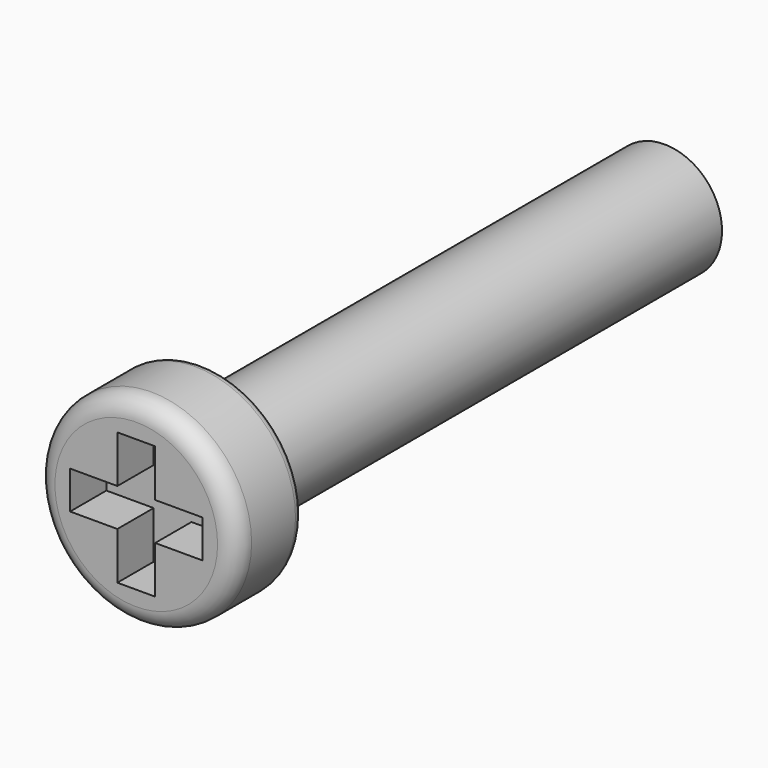
from build123d import *

# Parameters (mm, degrees)
F0_R     = 2.65
F1_DEPTH = 2.2
F0_W     = 1
F0_H     = 1.25
F0_W_2   = 1.25
F0_H_2   = 1
F2_DEPTH = 1
F3_R     = 0.5
F4_R     = 0.25
F5_R     = 1.52
F6_DEPTH = 15.26


with BuildPart() as f1:
    # F0 (on Front) → F1 (new body)
    with BuildSketch(Plane.XZ):
        Circle(F0_R)
        Polygon((0.5, -0.5), (0.5, -1.75), (-0.5, -1.75), (-0.5, -0.5), (-1.75, -0.5), (-1.75, 0.5), (-0.5, 0.5), (-0.5, 1.75), (0.5, 1.75), (0.5, 0.5), (1.75, 0.5), (1.75, -0.5), align=None, mode=Mode.SUBTRACT)
    extrude(amount=F1_DEPTH)

    # F0 (on Front) → F2 (join)
    with BuildSketch(Plane.XZ):
        with Locations((0, 1.125)):
            Rectangle(F0_W, F0_H)
        with Locations((1.125, 0)):
            Rectangle(F0_W_2, F0_H_2)
        with Locations((-1.125, 0)):
            Rectangle(F0_W_2, F0_H_2)
        Rectangle(F0_W, F0_H_2)
        with Locations((0, -1.125)):
            Rectangle(F0_W, F0_H)
    extrude(amount=F2_DEPTH)

    # F3
    f3_edges = [f1.edges().sort_by_distance(p)[0] for p in [
        (-2.65, -2.2, 0),
    ]]
    fillet(f3_edges, radius=F3_R)

    # F4
    f4_edges = [f1.edges().sort_by_distance(p)[0] for p in [
        (-2.65, 0, 0),
    ]]
    fillet(f4_edges, radius=F4_R)

    # F5 (on face) → F6 (join)
    with BuildSketch(Plane(origin=(0, 0, 0), x_dir=(-1, 0, 0), z_dir=(0, 1, 0))):
        Circle(F5_R)
    extrude(amount=F6_DEPTH)


solid = f1.part
